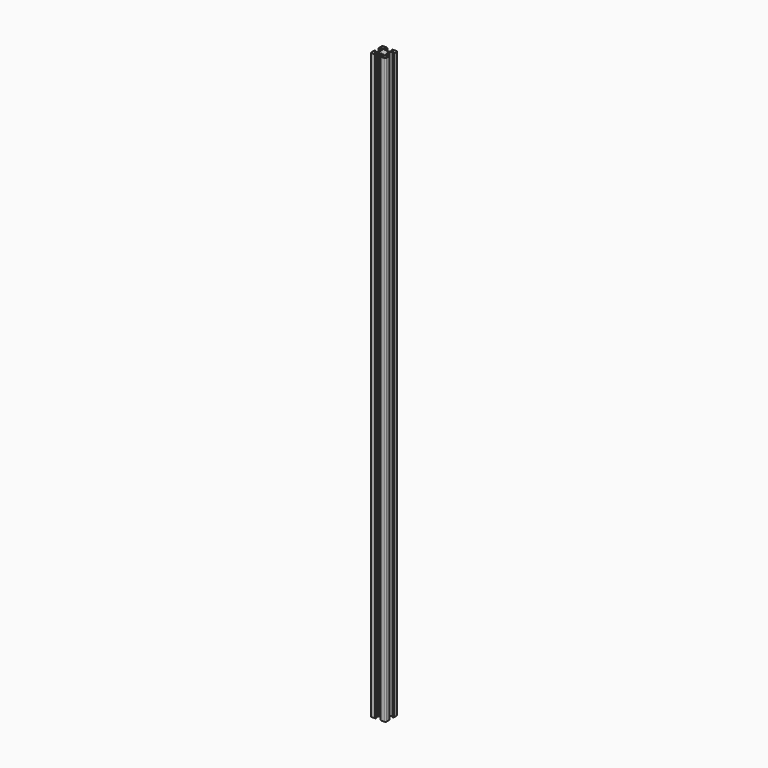
from build123d import *

# Parameters (mm, degrees)
PAD012_DEPTH    = 767.5
POCKET029_DEPTH = 767.501


with BuildPart() as pad012:
    # Sketch042 → Pad012 (new body)
    with BuildSketch(Plane(origin=(1.5, 0, 0), x_dir=(1, 0, 0), z_dir=(0, 0, 1))):
        with BuildLine():
            Line((0, 20), (4.65, 20))
            ThreePointArc((4.85, 19.8), (4.791421, 19.941421), (4.65, 20))
            Line((4.85, 19.8), (4.85, 19.5))
            Line((4.85, 19.5), (5.2, 19.5))
            ThreePointArc((5.4, 19.3), (5.341421, 19.441421), (5.2, 19.5))
            Line((5.4, 19.3), (5.4, 19))
            ThreePointArc((4.9, 18.5), (5.253553, 18.646446), (5.4, 19))
            Line((4.9, 18.5), (2.999999, 18.5))
            ThreePointArc((2.999999, 18.5), (2.646446, 18.353553), (2.499999, 18))
            Line((2.499999, 18), (2.499999, 17.267767))
            ThreePointArc((2.499999, 17.267767), (2.53806, 17.076425), (2.646446, 16.914213))
            Line((2.646446, 16.914213), (4.914213, 14.646447))
            ThreePointArc((4.914213, 14.646447), (5.076424, 14.53806), (5.267766, 14.5))
            Line((5.267766, 14.5), (7.54641, 14.5))
            ThreePointArc((7.64641, 14.473205), (7.598173, 14.493185), (7.54641, 14.5))
            Line((7.64641, 14.473205), (8.4, 14.03812))
            ThreePointArc((8.4, 14.03812), (8.5, 14.011325), (8.6, 14.03812))
            Line((8.6, 14.03812), (9.35359, 14.473205))
            ThreePointArc((9.45359, 14.5), (9.401827, 14.493185), (9.35359, 14.473205))
            Line((9.45359, 14.5), (11.732234, 14.5))
            ThreePointArc((11.732234, 14.5), (11.923576, 14.53806), (12.085787, 14.646447))
            Line((12.085787, 14.646447), (14.353554, 16.914213))
            ThreePointArc((14.353554, 16.914213), (14.46194, 17.076425), (14.500001, 17.267767))
            Line((14.500001, 17.267767), (14.500001, 18))
            ThreePointArc((14.500001, 18), (14.353554, 18.353553), (14.000001, 18.5))
            Line((14.000001, 18.5), (12.1, 18.5))
            ThreePointArc((11.6, 19), (11.746447, 18.646446), (12.1, 18.5))
            Line((11.6, 19), (11.6, 19.3))
            ThreePointArc((11.8, 19.5), (11.658579, 19.441421), (11.6, 19.3))
            Line((11.8, 19.5), (12.15, 19.5))
            Line((12.15, 19.5), (12.15, 19.8))
            ThreePointArc((12.35, 20), (12.208579, 19.941421), (12.15, 19.8))
            Line((12.35, 20), (17, 20))
            ThreePointArc((18.5, 18.5), (18.06066, 19.56066), (17, 20))
            Line((18.5, 18.5), (18.5, 13.85))
            ThreePointArc((18.3, 13.65), (18.441421, 13.708578), (18.5, 13.85))
            Line((18.3, 13.65), (18, 13.65))
            Line((18, 13.65), (18, 13.3))
            ThreePointArc((17.8, 13.1), (17.941421, 13.158579), (18, 13.3))
            Line((17.8, 13.1), (17.5, 13.1))
            ThreePointArc((17, 13.6), (17.146446, 13.246447), (17.5, 13.1))
            Line((17, 13.6), (17, 15.5))
            ThreePointArc((17, 15.5), (16.853553, 15.853553), (16.5, 16))
            Line((16.5, 16), (15.767767, 16))
            ThreePointArc((15.767767, 16), (15.576425, 15.961939), (15.414213, 15.853553))
            Line((15.414213, 15.853553), (13.146446, 13.585786))
            ThreePointArc((13.146446, 13.585786), (13.03806, 13.423574), (13, 13.232233))
            Line((13, 13.232233), (13, 10.953589))
            ThreePointArc((12.973205, 10.853589), (12.993185, 10.901825), (13, 10.953589))
            Line((12.973205, 10.853589), (12.53812, 10.1))
            ThreePointArc((12.53812, 10.1), (12.511325, 10), (12.53812, 9.9))
            Line((12.53812, 9.9), (12.973205, 9.146411))
            ThreePointArc((13, 9.046411), (12.993185, 9.098175), (12.973205, 9.146411))
            Line((13, 9.046411), (13, 6.767767))
            ThreePointArc((13, 6.767767), (13.03806, 6.576426), (13.146446, 6.414214))
            Line((13.146446, 6.414214), (15.414213, 4.146447))
            ThreePointArc((15.414213, 4.146447), (15.576425, 4.038061), (15.767767, 4))
            Line((15.767767, 4), (16.5, 4))
            ThreePointArc((16.5, 4), (16.853553, 4.146447), (17, 4.5))
            Line((17, 4.5), (17, 6.4))
            ThreePointArc((17.5, 6.9), (17.146446, 6.753553), (17, 6.4))
            Line((17.5, 6.9), (17.8, 6.9))
            ThreePointArc((18, 6.7), (17.941421, 6.841421), (17.8, 6.9))
            Line((18, 6.7), (18, 6.35))
            Line((18, 6.35), (18.3, 6.35))
            ThreePointArc((18.5, 6.15), (18.441421, 6.291422), (18.3, 6.35))
            Line((18.5, 6.15), (18.5, 1.5))
            ThreePointArc((17, 0), (18.06066, 0.43934), (18.5, 1.5))
            Line((17, 0), (12.35, 0))
            ThreePointArc((12.15, 0.2), (12.208579, 0.058579), (12.35, 0))
            Line((12.15, 0.2), (12.15, 0.5))
            Line((12.15, 0.5), (11.8, 0.5))
            ThreePointArc((11.6, 0.7), (11.658579, 0.558579), (11.8, 0.5))
            Line((11.6, 0.7), (11.6, 1))
            ThreePointArc((12.1, 1.5), (11.746447, 1.353554), (11.6, 1))
            Line((12.1, 1.5), (14.000001, 1.5))
            ThreePointArc((14.000001, 1.5), (14.353554, 1.646447), (14.500001, 2))
            Line((14.500001, 2), (14.500001, 2.732233))
            ThreePointArc((14.500001, 2.732233), (14.46194, 2.923575), (14.353554, 3.085787))
            Line((14.353554, 3.085787), (12.085787, 5.353553))
            ThreePointArc((12.085787, 5.353553), (11.923576, 5.46194), (11.732234, 5.5))
            Line((11.732234, 5.5), (9.45359, 5.5))
            ThreePointArc((9.35359, 5.526795), (9.401827, 5.506815), (9.45359, 5.5))
            Line((9.35359, 5.526795), (8.6, 5.96188))
            ThreePointArc((8.6, 5.96188), (8.5, 5.988675), (8.4, 5.96188))
            Line((8.4, 5.96188), (7.64641, 5.526795))
            ThreePointArc((7.54641, 5.5), (7.598173, 5.506815), (7.64641, 5.526795))
            Line((7.54641, 5.5), (5.267766, 5.5))
            ThreePointArc((5.267766, 5.5), (5.076424, 5.46194), (4.914213, 5.353553))
            Line((4.914213, 5.353553), (2.646446, 3.085787))
            ThreePointArc((2.646446, 3.085787), (2.53806, 2.923575), (2.499999, 2.732233))
            Line((2.499999, 2.732233), (2.499999, 2))
            ThreePointArc((2.499999, 2), (2.646446, 1.646447), (2.999999, 1.5))
            Line((2.999999, 1.5), (4.9, 1.5))
            ThreePointArc((5.4, 1), (5.253553, 1.353554), (4.9, 1.5))
            Line((5.4, 1), (5.4, 0.7))
            ThreePointArc((5.2, 0.5), (5.341421, 0.558579), (5.4, 0.7))
            Line((5.2, 0.5), (4.85, 0.5))
            Line((4.85, 0.5), (4.85, 0.2))
            ThreePointArc((4.65, 0), (4.791421, 0.058579), (4.85, 0.2))
            Line((4.65, 0), (0, 0))
            ThreePointArc((-1.5, 1.5), (-1.06066, 0.43934), (0, 0))
            Line((-1.5, 1.5), (-1.5, 6.15))
            ThreePointArc((-1.3, 6.35), (-1.441421, 6.291422), (-1.5, 6.15))
            Line((-1.3, 6.35), (-1, 6.35))
            Line((-1, 6.35), (-1, 6.7))
            ThreePointArc((-0.8, 6.9), (-0.941421, 6.841421), (-1, 6.7))
            Line((-0.8, 6.9), (-0.5, 6.9))
            ThreePointArc((0, 6.4), (-0.146446, 6.753553), (-0.5, 6.9))
            Line((0, 6.4), (0, 4.5))
            ThreePointArc((0, 4.5), (0.146447, 4.146447), (0.5, 4))
            Line((0.5, 4), (1.232233, 4))
            ThreePointArc((1.232233, 4), (1.423575, 4.038061), (1.585787, 4.146447))
            Line((1.585787, 4.146447), (3.853554, 6.414214))
            ThreePointArc((3.853554, 6.414214), (3.96194, 6.576426), (4, 6.767767))
            Line((4, 6.767767), (4, 9.046411))
            ThreePointArc((4.026795, 9.146411), (4.006815, 9.098175), (4, 9.046411))
            Line((4.026795, 9.146411), (4.46188, 9.9))
            ThreePointArc((4.46188, 9.9), (4.488675, 10), (4.46188, 10.1))
            Line((4.46188, 10.1), (4.026795, 10.853589))
            ThreePointArc((4, 10.953589), (4.006815, 10.901825), (4.026795, 10.853589))
            Line((4, 10.953589), (4, 13.232233))
            ThreePointArc((4, 13.232233), (3.96194, 13.423574), (3.853554, 13.585786))
            Line((3.853554, 13.585786), (1.585787, 15.853553))
            ThreePointArc((1.585787, 15.853553), (1.423575, 15.961939), (1.232233, 16))
            Line((1.232233, 16), (0.5, 16))
            ThreePointArc((0.5, 16), (0.146447, 15.853553), (0, 15.5))
            Line((0, 15.5), (0, 13.6))
            ThreePointArc((-0.5, 13.1), (-0.146446, 13.246447), (0, 13.6))
            Line((-0.5, 13.1), (-0.8, 13.1))
            ThreePointArc((-1, 13.3), (-0.941421, 13.158579), (-0.8, 13.1))
            Line((-1, 13.3), (-1, 13.65))
            Line((-1, 13.65), (-1.3, 13.65))
            ThreePointArc((-1.5, 13.85), (-1.441421, 13.708578), (-1.3, 13.65))
            Line((-1.5, 13.85), (-1.5, 18.5))
            ThreePointArc((0, 20), (-1.06066, 19.56066), (-1.5, 18.5))
        make_face()
    extrude(amount=PAD012_DEPTH)


with BuildPart() as pocket029:
    # Pocket029 base: copy of Pad012
    add(pad012.part)

    # Sketch043 → Pocket029 (cut, through all)
    with BuildSketch(Plane(origin=(1.5, 0, 767.5), x_dir=(1, 0, 0), z_dir=(0, 0, 1))):
        with BuildLine():
            ThreePointArc((6.586105, 12.989641), (5.988263, 12.50841), (5.507825, 11.909931))
            Line((6.054705, 11.258185), (5.507825, 11.909931))
            ThreePointArc((6.054705, 11.258185), (5.75, 10), (6.054705, 8.741815))
            Line((5.507825, 8.090069), (6.054705, 8.741815))
            ThreePointArc((5.507825, 8.090069), (5.988263, 7.49159), (6.586105, 7.010359))
            Line((7.241815, 7.554705), (6.586105, 7.010359))
            ThreePointArc((7.241815, 7.554705), (8.5, 7.25), (9.758185, 7.554705))
            Line((10.413895, 7.010359), (9.758185, 7.554705))
            ThreePointArc((10.413895, 7.010359), (11.011737, 7.49159), (11.492175, 8.090069))
            Line((10.945295, 8.741815), (11.492175, 8.090069))
            ThreePointArc((10.945295, 8.741815), (11.25, 10), (10.945295, 11.258185))
            Line((11.492175, 11.909931), (10.945295, 11.258185))
            ThreePointArc((11.492175, 11.909931), (11.011737, 12.50841), (10.413895, 12.989641))
            Line((9.758185, 12.445295), (10.413895, 12.989641))
            ThreePointArc((9.758185, 12.445295), (8.5, 12.75), (7.241815, 12.445295))
            Line((6.586105, 12.989641), (7.241815, 12.445295))
        make_face()
    extrude(amount=-POCKET029_DEPTH, mode=Mode.SUBTRACT)


with BuildPart() as fusion029:
    # Fusion029 base: copy of Pad012
    add(pad012.part)

    # Fusion029: union Pocket029
    add(pocket029.part)


with BuildPart() as fusion029_1:
    # Fusion029 placement: moved
    add(fusion029.part.moved(Location((197, -177, -544.5))))


solid = fusion029_1.part
